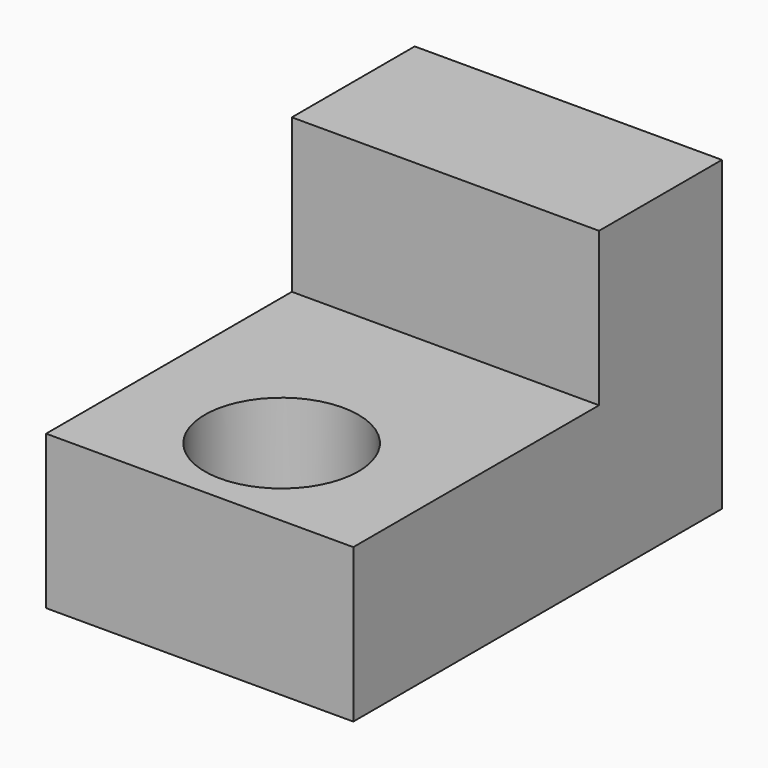
from build123d import *

# Parameters (mm, degrees)
F1_DEPTH = 6
F2_R     = 1.5
F3_DEPTH = 25


with BuildPart() as f1:
    # F0 (on Right) → F1 (new body)
    with BuildSketch(Plane.YZ):
        Polygon((-9, 0), (0, 0), (0, 6), (-3, 6), (-3, 3), (-9, 3), align=None)
    extrude(amount=F1_DEPTH)

    # F2 (on face) → F3 (cut)
    with BuildSketch(Plane.XY.offset(3)):
        with Locations((3, -7)):
            Circle(F2_R)
    extrude(amount=-F3_DEPTH, mode=Mode.SUBTRACT)


solid = f1.part
